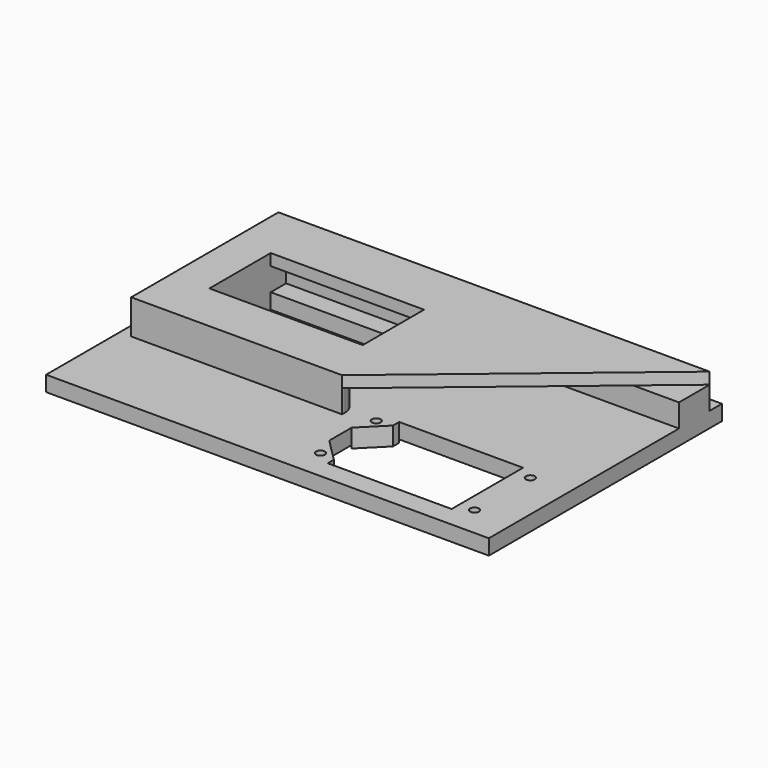
from build123d import *

# Parameters (mm, degrees)
SKETCH005_W     = 115.5
SKETCH005_H     = 76
PAD005_DEPTH    = 3
SKETCH006_W     = 115.5
SKETCH006_H     = 76
SKETCH006_W_2   = 40
SKETCH006_H_2   = 20
SKETCH006_W_3   = 44.32
SKETCH006_H_3   = 23.3
PAD006_DEPTH    = 1
PAD006_FACE22_W = 23.3
PAD006_FACE22_H = 44.32
POCKET_DEPTH    = 3.001
POCKET_FACE26_W = 20
POCKET_FACE26_H = 40
POCKET010_DEPTH = 3.001
SKETCH007_R     = 31
SKETCH007_R_2   = 29.055
PAD007_DEPTH    = 3
SKETCH035_R     = 1.15
SKETCH035_W     = 6
SKETCH035_H     = 23.3
PAD031_DEPTH    = 4.8
PAD013_DEPTH    = 6
SKETCH014_W     = 40
SKETCH014_H     = 20
PAD014_DEPTH    = 3


with BuildPart() as part:
    # Sketch005 → Pad005 (new body)
    with BuildSketch(Plane.XY):
        with Locations((24.75, -9)):
            Rectangle(SKETCH005_W, SKETCH005_H)
        with BuildLine():
            ThreePointArc((-21.953744, 12.675), (0, -25.35), (21.953744, 12.675))
            ThreePointArc((-21.953744, 12.675), (0, -28.406865), (21.953744, 12.675))
        make_face(mode=Mode.SUBTRACT)
    extrude(amount=PAD005_DEPTH)

    # Sketch006 (on Face8 of Pad005) → Pad006 (join)
    with BuildSketch(Plane.XY.offset(3)):
        with Locations((24.75, -9)):
            Rectangle(SKETCH006_W, SKETCH006_H)
        Rectangle(SKETCH006_W_2, SKETCH006_H_2, mode=Mode.SUBTRACT)
        with Locations((52.35, -30)):
            Rectangle(SKETCH006_W_3, SKETCH006_H_3, mode=Mode.SUBTRACT)
    extrude(amount=PAD006_DEPTH)

    # Pad006 Face22 → Pocket (cut, through all)
    with BuildSketch(Plane(origin=(52.35, -30, 3), x_dir=(0, 1, 0), z_dir=(0, 0, 1))):
        Rectangle(PAD006_FACE22_W, PAD006_FACE22_H)
    extrude(amount=-POCKET_DEPTH, mode=Mode.SUBTRACT)

    # Pocket Face26 → Pocket010 (cut, through all)
    with BuildSketch(Plane(origin=(0, 0, 3), x_dir=(0, 1, 0), z_dir=(0, 0, 1))):
        Rectangle(POCKET_FACE26_W, POCKET_FACE26_H)
    extrude(amount=-POCKET010_DEPTH, mode=Mode.SUBTRACT)

    # Sketch007 (on Face4 of Pocket) → Pad007 (join)
    with BuildSketch(Plane(origin=(0, 0, 0), x_dir=(1, 0, 0), z_dir=(0, 0, -1))):
        with Locations((0, 2)):
            Circle(SKETCH007_R)
        with Locations((0, 2)):
            Circle(SKETCH007_R_2, mode=Mode.SUBTRACT)
    extrude(amount=PAD007_DEPTH)

    # Sketch035 (on Face14 of Pad007) → Pad031 (join)
    with BuildSketch(Plane.XY.offset(4)):
        Polygon((30.19, -18.35), (30.19, -26.35), (36.19, -20.35), (36.19, -18.35), align=None)
        with Locations((32.25, -20.9)):
            Circle(SKETCH035_R, mode=Mode.SUBTRACT)
        Polygon((30.19, -41.65), (36.19, -41.65), (36.19, -39.65), (30.19, -33.65), align=None)
        with Locations((32.25, -39.1)):
            Circle(SKETCH035_R, mode=Mode.SUBTRACT)
        with Locations((71.51, -30)):
            Rectangle(SKETCH035_W, SKETCH035_H)
        with Locations((72.45, -20.9)):
            Circle(SKETCH035_R, mode=Mode.SUBTRACT)
        with Locations((72.45, -39.1)):
            Circle(SKETCH035_R, mode=Mode.SUBTRACT)
    extrude(amount=-PAD031_DEPTH)

    # Sketch013 (on Face14 of Pad007) → Pad013 (join)
    with BuildSketch(Plane.XY.offset(4)):
        with BuildLine():
            Line((82.5, 25), (82.5, 15))
            Line((82.5, 15), (-20, 15))
            Line((-20, 15), (-20, -18))
            Line((-20, -18), (21, -18))
            ThreePointArc((25, -22), (23.828427, -19.171573), (21, -18))
            Line((25, -22), (25, -23))
            Line((25, -23), (-30, -23))
            Line((-30, -23), (-30, 25))
            Line((-30, 25), (82.5, 25))
        make_face()
    extrude(amount=PAD013_DEPTH)

    # Sketch014 (on Face49 of Pad013) → Pad014 (join)
    with BuildSketch(Plane.XY.offset(10)):
        Polygon((82.5, 25), (25, -23), (-30, -23), (-30, 25), align=None)
        Rectangle(SKETCH014_W, SKETCH014_H, mode=Mode.SUBTRACT)
    extrude(amount=PAD014_DEPTH)


with BuildPart() as part_1:
    # Body002 placement: moved
    add(part.part.moved(Location((0, 0, 30))))


solid = part_1.part
